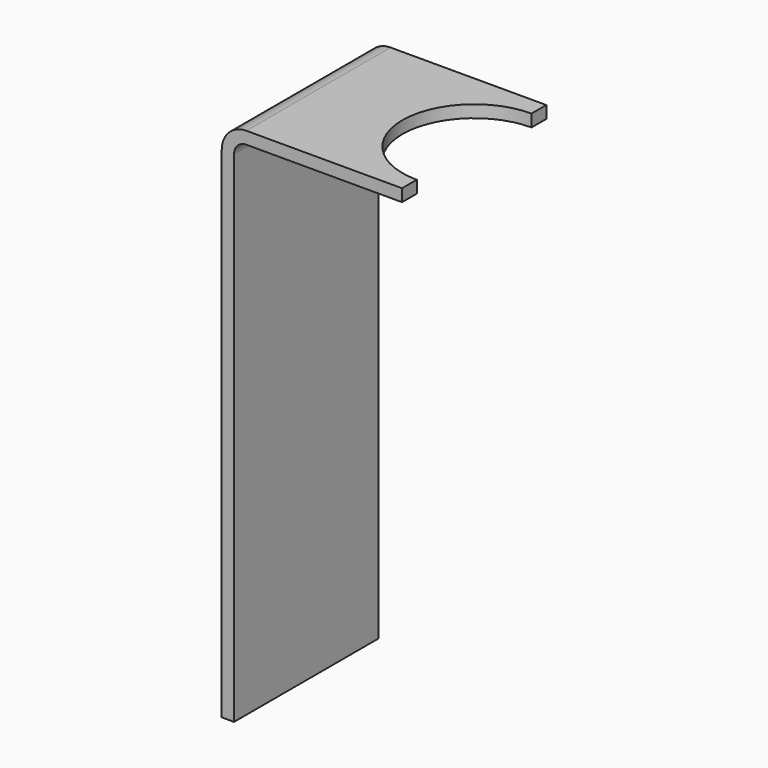
from build123d import *

# Parameters (mm, degrees)
F1_DEPTH = 44
F3_D     = 35


with BuildPart() as f1:
    # F0 (on Front) → F1 (new body)
    with BuildSketch(Plane.XZ):
        with BuildLine():
            Line((-3, 0), (0, 0))
            Line((0, 0), (0, 122))
            ThreePointArc((0, 122), (0.87868, 124.12132), (3, 125))
            Line((3, 125), (41, 125))
            Line((41, 125), (41, 128))
            Line((41, 128), (3, 128))
            ThreePointArc((3, 128), (-1.242641, 126.242641), (-3, 122))
            Line((-3, 122), (-3, 0))
        make_face()
    extrude(amount=F1_DEPTH)

    # F3 (through all)
    with Locations(Plane.XY.offset(128)):
        with Locations((41, -22)):
            Hole(F3_D / 2)


solid = f1.part
